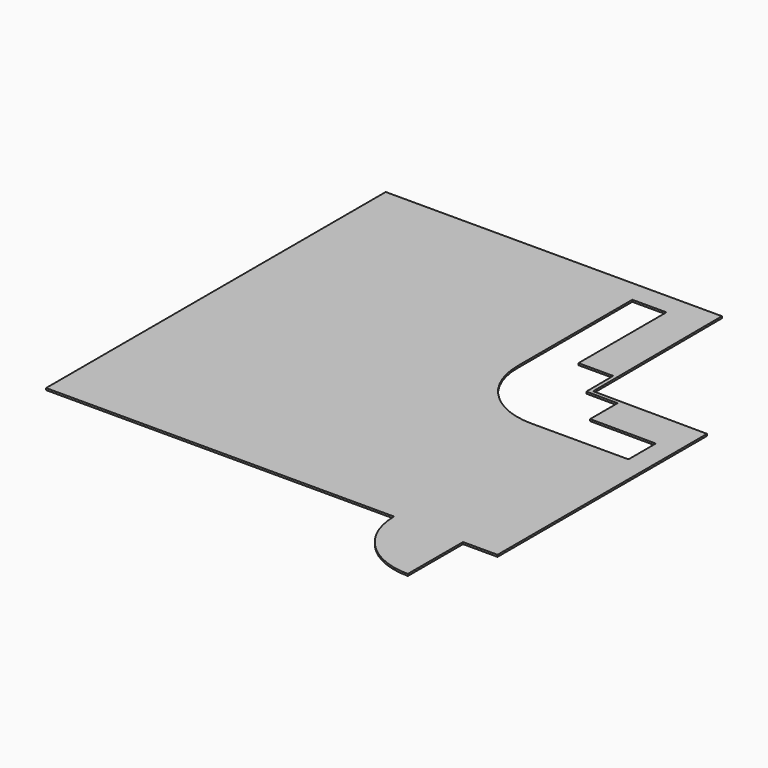
from build123d import *

# Parameters (mm, degrees)
F0_W     = 450
F0_H     = 290
F1_DEPTH = 25


with BuildPart() as f1:
    # F0 (on Top) → F1 (new body)
    with BuildSketch(Plane.XY):
        with BuildLine():
            Line((1652.9929, 2688.108925), (-1832.0071, 2688.108925))
            Line((-1832.0071, 2688.108925), (-1832.0071, -2911.891075))
            Line((-1832.0071, -2911.891075), (2757.9929, -2911.891075))
            ThreePointArc((2757.9929, -2911.891075), (3024.52573, -3555.358246), (3667.9929, -3821.891075))
            Line((3667.9929, -3821.891075), (3667.9929, -2911.891075))
            Line((3667.9929, -2911.891075), (4122.979164, -2911.891075))
            Line((4122.979164, -2911.891075), (4122.979164, -406.891075))
            Line((4122.979164, -406.891075), (3846.290414, -406.891075))
            Line((3846.290414, -406.891075), (3556.290414, -406.891075))
            Line((3556.290414, -406.891075), (3266.290414, -406.891075))
            Line((3266.290414, -406.891075), (2976.290414, -406.891075))
            Line((2976.290414, -406.891075), (2562.979164, -406.891075))
            ThreePointArc((2562.979164, -406.891075), (1921.282195, -142.123591), (1652.9929, 498.108925))
            Line((1652.9929, 498.108925), (1652.9929, 948.108925))
            Line((1652.9929, 948.108925), (1652.9929, 1238.108925))
            Line((1652.9929, 1238.108925), (1652.9929, 1528.108925))
            Line((1652.9929, 1528.108925), (1652.9929, 1818.108925))
            Line((1652.9929, 1818.108925), (1652.9929, 2108.108925))
            Line((1652.9929, 2108.108925), (1652.9929, 2398.108925))
            Line((1652.9929, 2398.108925), (1652.9929, 2688.108925))
        make_face()
        with Locations((1877.9929, 2543.108925)):
            Rectangle(F0_W, F0_H)
        Polygon((2552.9929, 2688.108925), (2102.9929, 2688.108925), (2102.9929, 2398.108925), (2102.9929, 2108.108925), (2102.9929, 1818.108925), (2102.9929, 1528.108925), (2102.9929, 1238.108925), (2102.9929, 948.108925), (2560.945348, 948.108925), align=None)
        Polygon((2602.992378, 2688.337441), (2552.9929, 2688.108925), (2560.945348, 948.108925), (2562.979164, 503.108925), (2976.290414, 500.459494), (4122.979164, 493.108925), (4122.979164, 543.108925), (2612.749607, 552.790911), align=None)
        Polygon((3846.290414, -406.891075), (4122.979164, -406.891075), (4122.979164, 43.108925), (3846.290414, 44.321986), align=None)
        Polygon((4122.979164, 493.108925), (2976.290414, 500.459494), (2976.290414, 48.136247), (3266.290414, 46.864827), (3556.290414, 45.593406), (3846.290414, 44.321986), (4122.979164, 43.108925), align=None)
    extrude(amount=F1_DEPTH)


solid = f1.part
